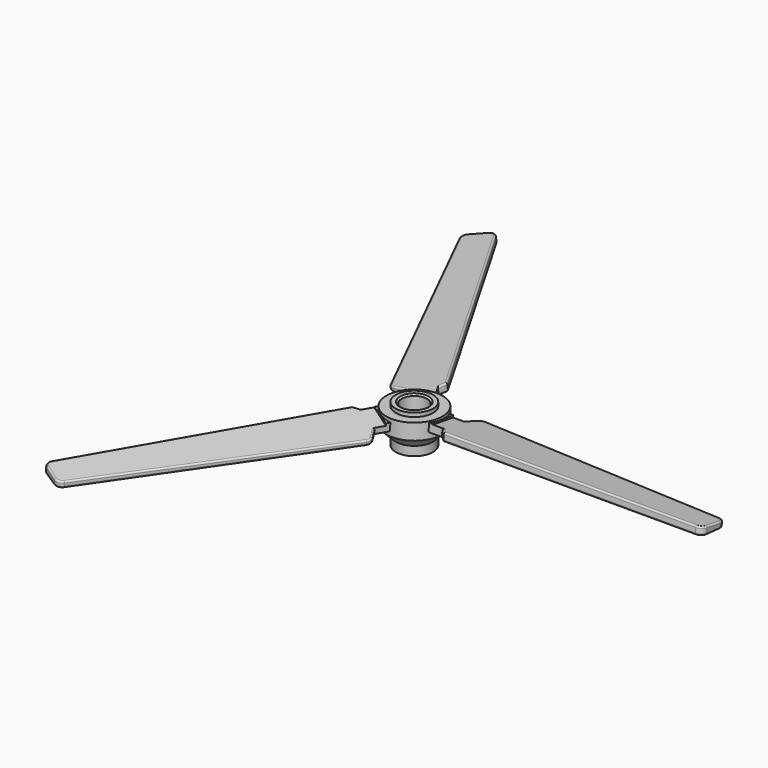
from build123d import *

# Parameters (mm, degrees)
CHAMFER_SIZE          = 0.5
PAD001_DEPTH          = 2.5
POCKET_DEPTH          = 86
POLARPATTERN001_COUNT = 3
FILLET_R              = 0.5


with BuildPart() as part:
    # Sketch → Revolution (revolve)
    with BuildSketch(Plane.XZ):
        Polygon((4, 0), (4, 12), (5.85, 12), (5.85, 10.8), (8.8, 10.8), (8.8, 5.8), (5.85, 2.85), (5.85, 0), align=None)
    revolve(axis=Axis((0, 0, 0), (0, 0, 1)))

    # Chamfer
    chamfer_edges = [part.edges().sort_by_distance(p)[0] for p in [
        (-4, 0, 12),
    ]]
    chamfer(chamfer_edges, length=CHAMFER_SIZE)

    # Sketch002 (on DatumPlane) → Pad001 (new body)
    with BuildSketch(Plane(origin=(0, 0, 10), x_dir=(1, 0, 0), z_dir=(0, 0.087156, 0.996195))):
        with BuildLine():
            Line((7, 4), (7, -4))
            Line((7, -4), (12, -4))
            Line((12, -4), (14, -6))
            Line((14, -6), (93, -6))
            ThreePointArc((93, -6), (94.414214, -5.414214), (95, -4))
            Line((95, -4), (95, 1.131983))
            ThreePointArc((95, 1.131983), (94.461618, 2.497147), (93.136328, 3.127332))
            Line((93.136328, 3.127332), (15.767604, 8.413393))
            ThreePointArc((15.767604, 8.413393), (14.676394, 8.175372), (13.882962, 7.389331))
            Line((13.882962, 7.389331), (12, 4))
            Line((12, 4), (7, 4))
        make_face()
    pad001 = extrude(amount=-PAD001_DEPTH)

    # Sketch003 (on Face18 of Pad001) → Pocket (cut)
    with BuildSketch(Plane(origin=(95, 0, 0), x_dir=(0, 0, 1), z_dir=(1, 0, 0))):
        Polygon((10.838588, 7.977168), (7.783295, -11.381378), (10.838588, -11.381378), align=None)
    pocket = extrude(amount=-POCKET_DEPTH, mode=Mode.SUBTRACT)

    # PolarPattern001: Pad001, Pocket ×3 about axis
    polarpattern001_axis = Axis((0, 0, 0), (0, 0, 1))
    for i in range(1, POLARPATTERN001_COUNT):
        add(pad001.rotate(polarpattern001_axis, i * 360 / POLARPATTERN001_COUNT))
        add(pocket.rotate(polarpattern001_axis, i * 360 / POLARPATTERN001_COUNT), mode=Mode.SUBTRACT)

    # Fillet
    fillet_edges = [part.edges().sort_by_distance(p)[0] for p in [
        (-22.309357, -49.995402, 8.683561),
        (-22.436416, -49.922044, 7.006593),
        (54.451966, 5.530515, 7.006593),
        (54.451966, 5.677231, 8.683561),
        (-32.01555, 44.391528, 7.006593),
        (-32.142609, 44.318171, 8.683561),
        (-11.002347, -8.658899, 7.945292),
        (-10.818886, -8.76482, 10.366663),
        (-2.181114, 13.75184, 10.366663),
        (-1.997653, 13.857762, 7.945292),
        (13, -4.98702, 10.366663),
        (13, -5.198863, 7.945292),
    ]]
    fillet(fillet_edges, radius=FILLET_R)


solid = part.part
